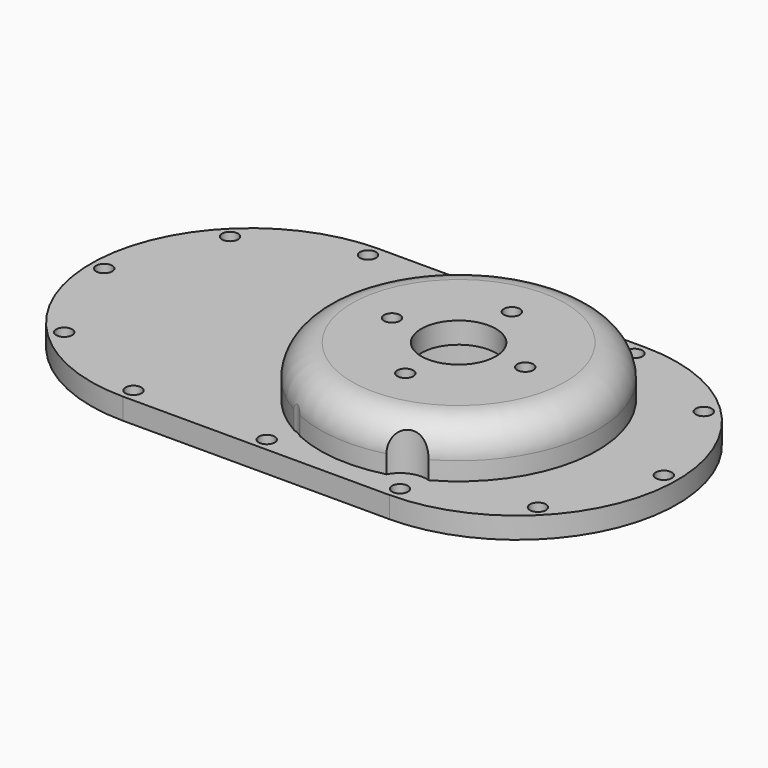
from build123d import *

# Parameters (mm, degrees)
SKETCH_R        = 18
PAD_DEPTH       = 4
SKETCH002_R     = 26
SKETCH002_R_2   = 18
PAD001_DEPTH    = 5.4
SKETCH003_R     = 26
PAD002_DEPTH    = 4
SKETCH004_R     = 1.5
SKETCH004_R_2   = 7
POCKET_DEPTH    = 5
SKETCH005_R     = 1.5
POCKET001_DEPTH = 5
FILLET_R        = 6
SKETCH006_R     = 5
POCKET002_DEPTH = 15


with BuildPart() as part:
    # Sketch → Pad (new body)
    with BuildSketch(Plane.XY):
        with BuildLine():
            ThreePointArc((-39, 30), (-69, 0), (-39, -30))
            Line((-39, -30), (11, -30))
            ThreePointArc((11, -30), (41, 0), (11, 30))
            Line((-39, 30), (11, 30))
        make_face()
        Circle(SKETCH_R, mode=Mode.SUBTRACT)
    extrude(amount=PAD_DEPTH)

    # Sketch002 (on Face7 of Pad) → Pad001 (join)
    with BuildSketch(Plane.XY.offset(4)):
        Circle(SKETCH002_R)
        Circle(SKETCH002_R_2, mode=Mode.SUBTRACT)
    extrude(amount=PAD001_DEPTH)

    # Sketch003 (on Face10 of Pad001) → Pad002 (join)
    with BuildSketch(Plane.XY.offset(9.4)):
        Circle(SKETCH003_R)
    extrude(amount=PAD002_DEPTH)

    # Sketch004 (on Face12 of Pad002) → Pocket (cut)
    with BuildSketch(Plane.XY.offset(13.4)):
        with Locations((12.5, 0)):
            Circle(SKETCH004_R)
        with Locations((-12.5, 0)):
            Circle(SKETCH004_R)
        with Locations((0, 12.5)):
            Circle(SKETCH004_R)
        with Locations((0, -12.5)):
            Circle(SKETCH004_R)
        Circle(SKETCH004_R_2)
    extrude(amount=-POCKET_DEPTH, mode=Mode.SUBTRACT)

    # Sketch005 (on Face4 of Pocket) → Pocket001 (cut)
    with BuildSketch(Plane(origin=(0, 0, 0), x_dir=(1, 0, 0), z_dir=(0, 0, -1))):
        with Locations((-39, 27.5)):
            Circle(SKETCH005_R)
        with Locations((-14, 27.5)):
            Circle(SKETCH005_R)
        with Locations((11, 27.5)):
            Circle(SKETCH005_R)
        with Locations((30.445436, 19.445436)):
            Circle(SKETCH005_R)
        with Locations((38.5, 0)):
            Circle(SKETCH005_R)
        with Locations((30.445436, -19.445436)):
            Circle(SKETCH005_R)
        with Locations((11, -27.5)):
            Circle(SKETCH005_R)
        with Locations((-14, -27.5)):
            Circle(SKETCH005_R)
        with Locations((-39, -27.5)):
            Circle(SKETCH005_R)
        with Locations((-58.445436, -19.445436)):
            Circle(SKETCH005_R)
        with Locations((-66.5, 0)):
            Circle(SKETCH005_R)
        with Locations((-58.445436, 19.445436)):
            Circle(SKETCH005_R)
    extrude(amount=-POCKET001_DEPTH, mode=Mode.SUBTRACT)

    # Fillet
    fillet_edges = [part.edges().sort_by_distance(p)[0] for p in [
        (-26, 0, 13.4),
    ]]
    fillet(fillet_edges, radius=FILLET_R)

    # Sketch006 (on Face3 of Fillet) → Pocket002 (cut)
    with BuildSketch(Plane.XY.offset(4)):
        with Locations((-14, 27.5)):
            Circle(SKETCH006_R)
        with Locations((11, 27.5)):
            Circle(SKETCH006_R)
        with Locations((11, -27.5)):
            Circle(SKETCH006_R)
        with Locations((-14, -27.5)):
            Circle(SKETCH006_R)
    extrude(amount=POCKET002_DEPTH, mode=Mode.SUBTRACT)


solid = part.part
